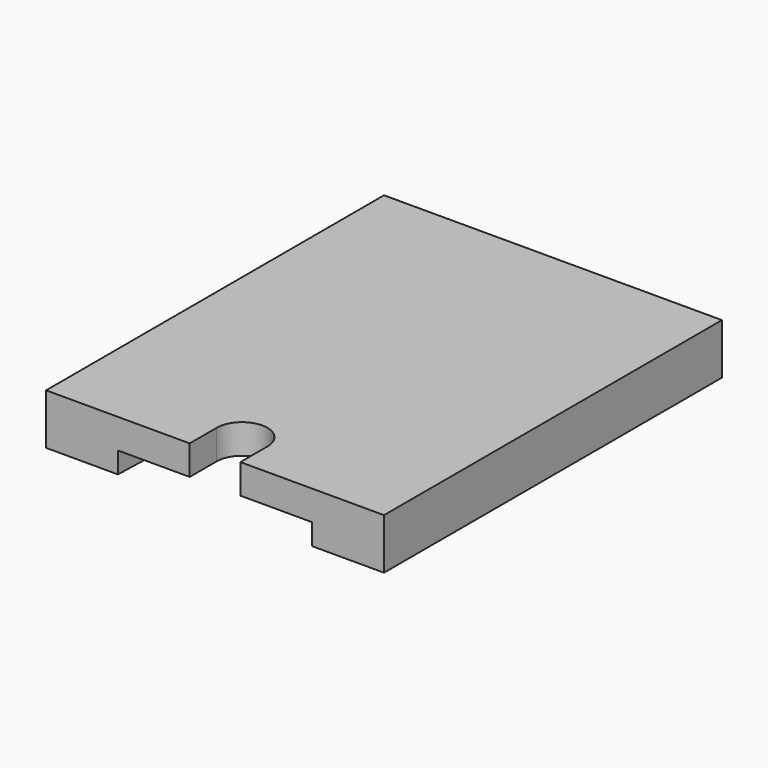
from build123d import *

# Parameters (mm, degrees)
F1_DEPTH = 6
F3_DEPTH = 2.5


with BuildPart() as f1:
    # F0 (on Top) → F1 (new body)
    with BuildSketch(Plane.XY):
        with BuildLine():
            Line((0, -25.719567), (0, 24.280433))
            Line((0, 24.280433), (-40, 24.280433))
            Line((-40, 24.280433), (-40, -25.719567))
            Line((-40, -25.719567), (-23, -25.719567))
            Line((-23, -25.719567), (-23, -21.719567))
            ThreePointArc((-23, -21.719567), (-20, -18.719567), (-17, -21.719567))
            Line((-17, -21.719567), (-17, -25.719567))
            Line((-17, -25.719567), (0, -25.719567))
        make_face()
    extrude(amount=F1_DEPTH)

    # F2 (on face) → F3 (cut)
    with BuildSketch(Plane(origin=(0, 0, 0), x_dir=(1, 0, 0), z_dir=(0, 0, -1))):
        with BuildLine():
            Line((-9.355118, 25.719567), (-30.644882, 25.719567))
            ThreePointArc((-30.644882, 25.719567), (-31.188453, 23.752307), (-31.37161, 21.719567))
            ThreePointArc((-31.37161, 21.719567), (-20, 10.347957), (-8.62839, 21.719567))
            ThreePointArc((-8.62839, 21.719567), (-8.811547, 23.752307), (-9.355118, 25.719567))
        make_face()
        with BuildLine():
            ThreePointArc((-9.355118, 25.719567), (-20, 33.091177), (-30.644882, 25.719567))
            Line((-30.644882, 25.719567), (-9.355118, 25.719567))
        make_face()
        with BuildLine():
            ThreePointArc((-31.37161, 21.719567), (-31.188453, 23.752307), (-30.644882, 25.719567))
            Line((-30.644882, 25.719567), (-31.5, 25.719567))
            Line((-31.5, 25.719567), (-31.37161, 21.719567))
        make_face()
        with BuildLine():
            Line((-8.5, 25.719567), (-9.355118, 25.719567))
            ThreePointArc((-9.355118, 25.719567), (-8.811547, 23.752307), (-8.62839, 21.719567))
            Line((-8.62839, 21.719567), (-8.5, 25.719567))
        make_face()
    extrude(amount=-F3_DEPTH, mode=Mode.SUBTRACT)


solid = f1.part
